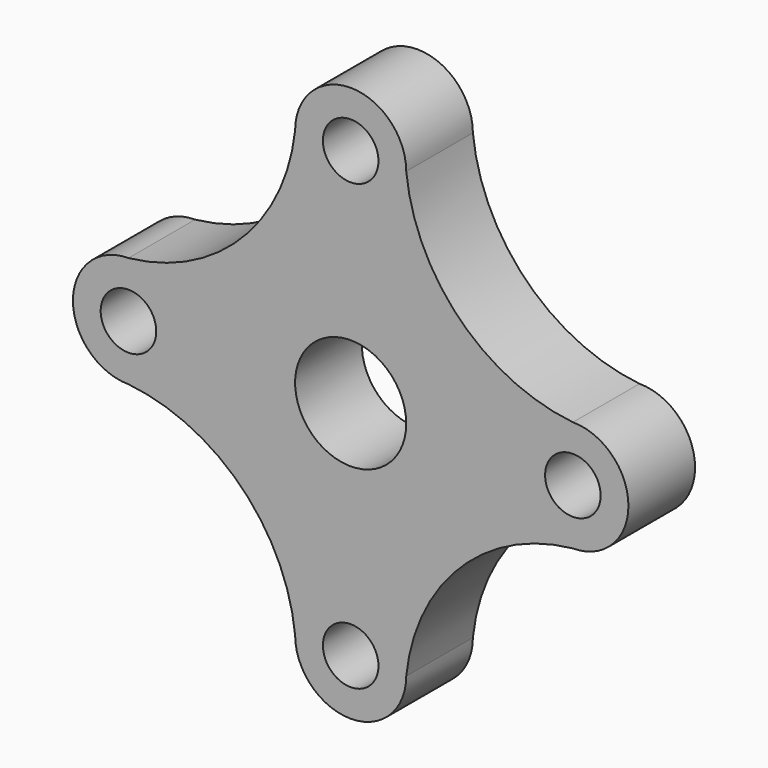
from build123d import *

# Parameters (mm, degrees)
F0_R     = 6.35
F0_R_2   = 12.7
F1_DEPTH = 19.05


with BuildPart() as f1:
    # F0 (on Front) → F1 (new body)
    with BuildSketch(Plane.XZ):
        with BuildLine():
            ThreePointArc((-12.984713, 51.275665), (-25.311381, 25.502333), (-51.084713, 13.175665))
            ThreePointArc((-51.084713, 13.175665), (-63.784713, 0.475665), (-51.084713, -12.224335))
            ThreePointArc((-51.084713, -12.224335), (-25.266476, -24.506099), (-12.984713, -50.324335))
            ThreePointArc((-12.984713, -50.324335), (-0.284713, -63.024335), (12.415287, -50.324335))
            ThreePointArc((12.415287, -50.324335), (24.697063, -24.506111), (50.515287, -12.224335))
            ThreePointArc((50.515287, -12.224335), (63.215287, 0.475665), (50.515287, 13.175665))
            ThreePointArc((50.515287, 13.175665), (24.697074, 25.457452), (12.415287, 51.275665))
            ThreePointArc((12.415287, 51.275665), (-0.284713, 63.975665), (-12.984713, 51.275665))
        make_face()
        with Locations((-0.284713, -50.324335)):
            Circle(F0_R, mode=Mode.SUBTRACT)
        with Locations((-51.084713, 0.475665)):
            Circle(F0_R, mode=Mode.SUBTRACT)
        with Locations((-0.284713, 0.475665)):
            Circle(F0_R_2, mode=Mode.SUBTRACT)
        with Locations((-0.284713, 51.275665)):
            Circle(F0_R, mode=Mode.SUBTRACT)
        with Locations((50.515287, 0.475665)):
            Circle(F0_R, mode=Mode.SUBTRACT)
    extrude(amount=F1_DEPTH)


solid = f1.part
